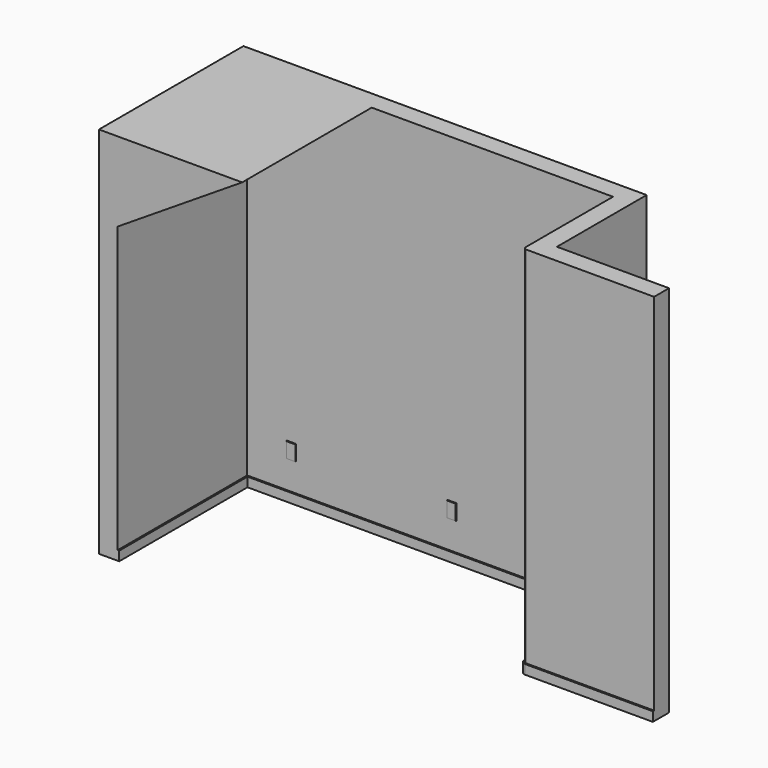
from build123d import *

# Parameters (mm, degrees)
F1_DEPTH = 3048
F2_DEPTH = 76.2
F3_W     = 76.2
F3_H     = 127
F4_DEPTH = 6.35
F4_TAPER = 15
F5_W     = 76.2
F5_H     = 127
F6_DEPTH = 6.35
F6_TAPER = 15
F8_DEPTH = 1320.8


with BuildPart() as f1:
    # F0 (on Top) → F1 (new body)
    with BuildSketch(Plane.XY):
        with BuildLine():
            Line((-1492.25, 444.5), (1492.25, 444.5))
            Line((1492.25, 444.5), (1492.25, -444.5))
            ThreePointArc((1492.25, -444.5), (1499.6894877579, -462.4605122421), (1517.65, -469.9))
            Line((1517.65, -469.9), (2559.05, -469.9))
            Line((2559.05, -469.9), (2559.05, -317.5))
            Line((2559.05, -317.5), (1644.65, -317.5))
            Line((1644.65, -317.5), (1644.65, 596.9))
            Line((1644.65, 596.9), (-1644.65, 596.9))
            Line((-1644.65, 596.9), (-1644.65, -876.3))
            Line((-1644.65, -876.3), (-1492.25, -876.3))
            Line((-1492.25, -876.3), (-1492.25, -444.5))
            Line((-1492.25, -444.5), (-1492.25, 444.5))
        make_face()
    extrude(amount=F1_DEPTH)

    # F0 (on Top) → F2 (join)
    with BuildSketch(Plane.XY):
        with BuildLine():
            Line((1492.25, -444.5), (1492.25, 444.5))
            Line((1492.25, 444.5), (-1492.25, 444.5))
            Line((-1492.25, 444.5), (-1492.25, -444.5))
            Line((-1492.25, -444.5), (-1492.25, -876.3))
            Line((-1492.25, -876.3), (-1479.55, -876.3))
            Line((-1479.55, -876.3), (-1479.55, 431.8))
            Line((-1479.55, 431.8), (1479.55, 431.8))
            Line((1479.55, 431.8), (1479.55, -444.5))
            ThreePointArc((1479.55, -444.5), (1490.7092316368, -471.4407683632), (1517.65, -482.6))
            Line((1517.65, -482.6), (2559.05, -482.6))
            Line((2559.05, -482.6), (2559.05, -469.9))
            Line((2559.05, -469.9), (1517.65, -469.9))
            ThreePointArc((1517.65, -469.9), (1499.6894877579, -462.4605122421), (1492.25, -444.5))
        make_face()
    extrude(amount=F2_DEPTH)

    # F3 (on face) → F4 (join)
    with BuildSketch(Plane.XZ.offset(-444.5)):
        with Locations((-1130.3, 368.3)):
            Rectangle(F3_W, F3_H)
        with Locations((177.8, 368.3)):
            Rectangle(F3_W, F3_H)
    extrude(amount=F4_DEPTH, taper=F4_TAPER)

    # F5 (on face) → F6 (join)
    with BuildSketch(Plane(origin=(1492.25, 0, 0), x_dir=(0, -1, 0), z_dir=(-1, 0, 0))):
        with Locations((0, 368.3)):
            Rectangle(F5_W, F5_H)
    extrude(amount=F6_DEPTH, taper=F6_TAPER)

    # F7 (on face) → F8 (join, through all)
    with BuildSketch(Plane.XZ.offset(-444.5)):
        Polygon((-476.25, 3048), (-1492.25, 3048), (-1492.25, 2400.3), align=None)
    extrude(amount=F8_DEPTH)


solid = f1.part
